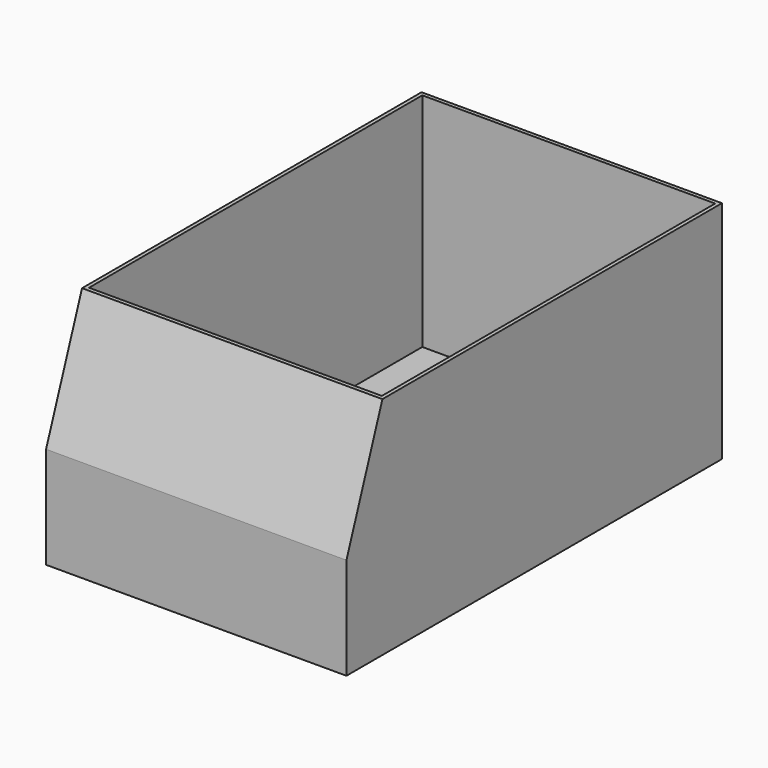
from build123d import *

# Parameters (mm, degrees)
F1_DEPTH = 250
F3_DEPTH = 160
F4_T     = -2


with BuildPart() as f1:
    # F0 (on Front) → F1 (new body)
    with BuildSketch(Plane.XZ):
        Polygon((72.809999, 73.434824), (-47.190001, 73.434824), (-47.190001, -46.565176), (72.809999, -46.565176), (112.809999, -46.565176), (112.809999, 73.434824), align=None)
    extrude(amount=F1_DEPTH)

    # F2 (on face) → F3 (cut, through all)
    with BuildSketch(Plane.YZ.offset(112.809999)):
        Polygon((-250, 73.434824), (-250, 7.656341), (-226.05859, 73.434824), align=None)
    extrude(amount=-F3_DEPTH, mode=Mode.SUBTRACT)

    # F4
    f4_openings = [f1.faces().sort_by_distance(p)[0] for p in [
        (32.809999, -113.029295, 73.434824),
    ]]
    offset(amount=F4_T, openings=f4_openings)


solid = f1.part
